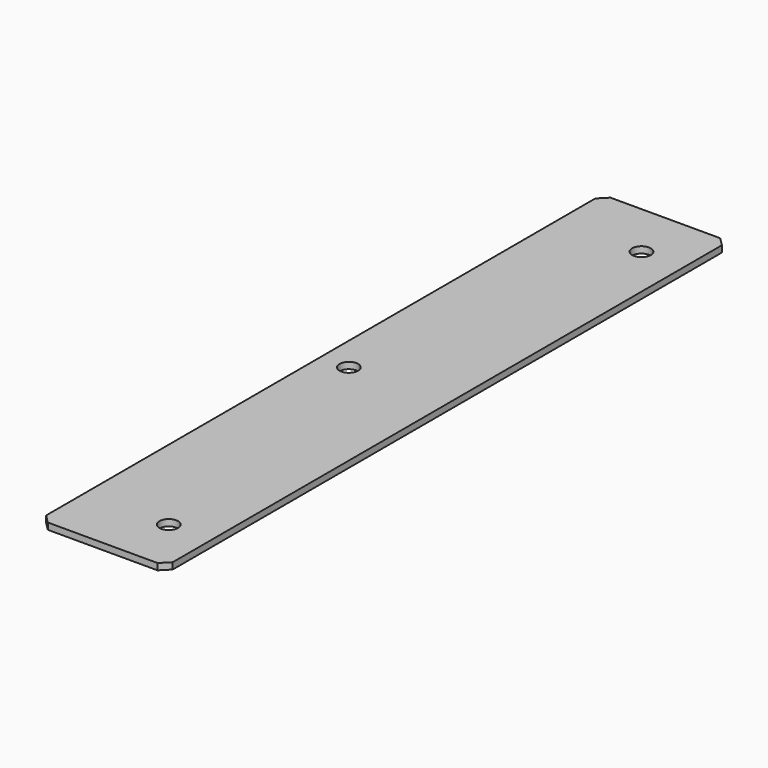
from build123d import *

# Parameters (mm, degrees)
F0_W     = 45
F0_H     = 250
F1_DEPTH = 2.3
F3_D     = 6.6
F4_SIZE  = 3


with BuildPart() as f1:
    # F0 (on Top) → F1 (new body)
    with BuildSketch(Plane.XY):
        with Locations((22.5, 125)):
            Rectangle(F0_W, F0_H)
    extrude(amount=F1_DEPTH)

    # F3 (through all)
    with Locations(Plane.XY.offset(2.3)):
        with Locations((30, 230), (10, 125), (30, 20)):
            Hole(F3_D / 2)

    # F4
    f4_edges = [f1.edges().sort_by_distance(p)[0] for p in [
        (0, 250, 1.15),
        (45, 250, 1.15),
        (0, 0, 1.15),
        (45, 0, 1.15),
    ]]
    chamfer(f4_edges, length=F4_SIZE)


solid = f1.part
